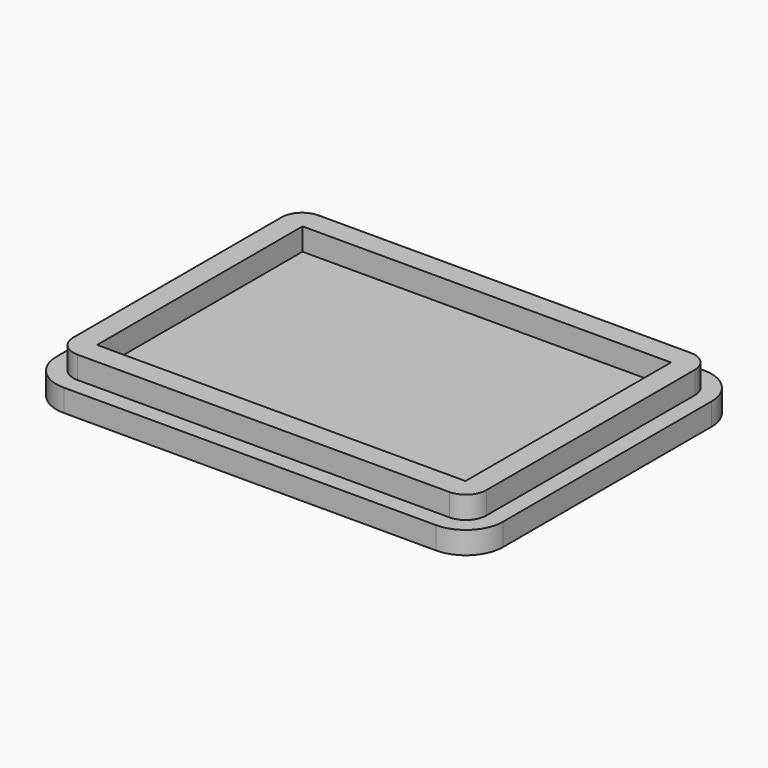
from build123d import *

# Parameters (mm, degrees)
F1_DEPTH = 3
F3_DEPTH = 3
F4_T     = -3


with BuildPart() as f1:
    # F0 (on Top) → F1 (new body)
    with BuildSketch(Plane.XY):
        with BuildLine():
            Line((27.75, -17.5), (27.75, 17.5))
            ThreePointArc((27.75, 17.5), (26.9445436483, 19.4445436483), (25, 20.25))
            Line((25, 20.25), (-25, 20.25))
            ThreePointArc((-25, 20.25), (-26.9445436483, 19.4445436483), (-27.75, 17.5))
            Line((-27.75, 17.5), (-27.75, -17.5))
            ThreePointArc((-27.75, -17.5), (-26.9445436483, -19.4445436483), (-25, -20.25))
            Line((-25, -20.25), (25, -20.25))
            ThreePointArc((25, -20.25), (26.9445436483, -19.4445436483), (27.75, -17.5))
        make_face()
    extrude(amount=F1_DEPTH)

    # F2 (on Top) → F3 (join)
    with BuildSketch(Plane.XY):
        with BuildLine():
            Line((-25, -22.5), (10, -22.5))
            Line((10, -22.5), (25, -22.5))
            ThreePointArc((25, -22.5), (28.5355339059, -21.0355339059), (30, -17.5))
            Line((30, -17.5), (30, 17.5))
            ThreePointArc((30, 17.5), (28.5355339059, 21.0355339059), (25, 22.5))
            Line((25, 22.5), (-25, 22.5))
            ThreePointArc((-25, 22.5), (-28.5355339059, 21.0355339059), (-30, 17.5))
            Line((-30, 17.5), (-30, -17.5))
            ThreePointArc((-30, -17.5), (-28.5355339059, -21.0355339059), (-25, -22.5))
        make_face()
    extrude(amount=-F3_DEPTH)

    # F4
    f4_openings = [f1.faces().sort_by_distance(p)[0] for p in [
        (0, 0, 3),
    ]]
    offset(amount=F4_T, openings=f4_openings, kind=Kind.INTERSECTION)


solid = f1.part
